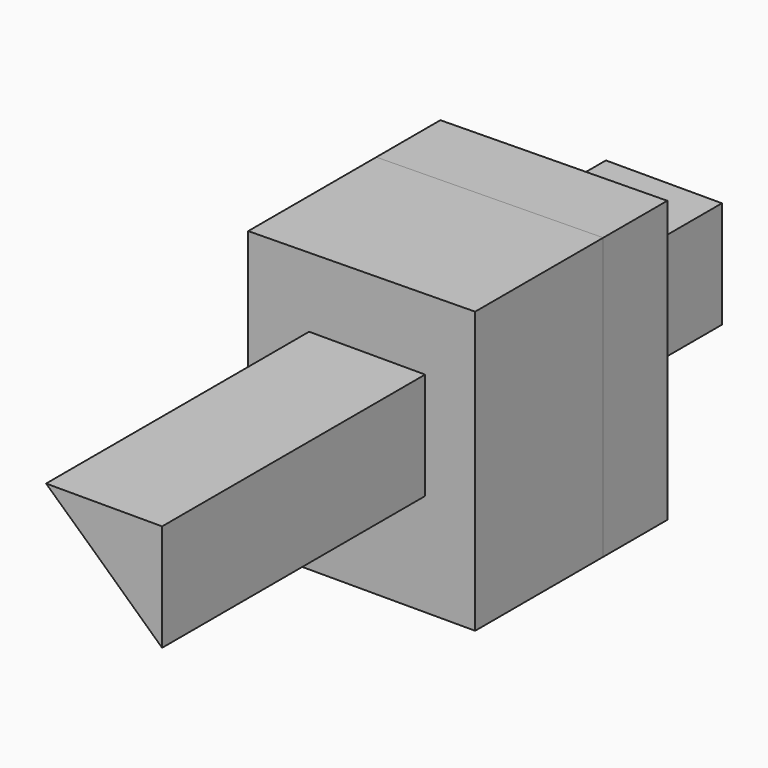
from build123d import *

# Parameters (mm, degrees)
F1_DEPTH = 50.8
F2_DEPTH = 25.4
F4_W     = 36.810688
F4_H     = 33.923566
F6_DEPTH = 117.714763
F7_DEPTH = 53.512752
F9_DEPTH = 50.799541


with BuildPart() as f1:
    # F0 (on Front) → F1 (new body)
    with BuildSketch(Plane.XZ):
        Polygon((37.712902, 42.765312), (-34.284458, 41.863091), (-34.284458, -46.374276), (37.712902, -46.374276), align=None)
    extrude(amount=-F1_DEPTH)

    # F1_face (on face) → F2 (join)
    with BuildSketch(Plane(origin=(1.775257, 50.8, -2.029655), x_dir=(1, 0, 0), z_dir=(0, 1, 0))):
        Polygon((-36.059715, -43.892746), (35.937644, -44.794967), (35.937644, 44.344621), (-36.059715, 44.344621), align=None)
    extrude(amount=F2_DEPTH)

    # F4 (on face) → F6 (join)
    with BuildSketch(Plane.XZ):
        with Locations((3.428448, 3.067523)):
            Rectangle(F4_W, F4_H)
    extrude(amount=-F6_DEPTH)

    # F4 (on face) → F7 (join)
    with BuildSketch(Plane.XZ):
        with Locations((3.428448, 3.067523)):
            Rectangle(F4_W, F4_H)
        with Locations((3.428448, 3.067523)):
            Rectangle(F4_W, F4_H)
    extrude(amount=F7_DEPTH)

    # F8 (on face) → F9 (join)
    with BuildSketch(Plane.XZ.offset(53.512752)):
        Polygon((-14.976896, 20.029306), (0, 6.306419), (21.833792, -13.89426), (21.833792, 20.029306), align=None)
    extrude(amount=F9_DEPTH)


solid = f1.part
